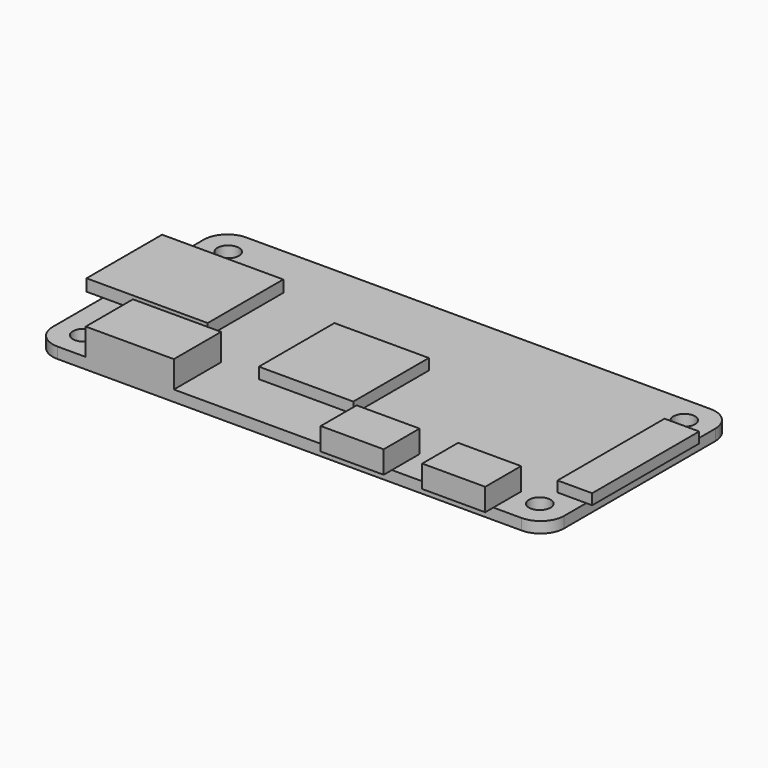
from build123d import *

# Parameters (mm, degrees)
F0_R     = 1.375
F1_DEPTH = 1.4
F2_W     = 12
F2_H     = 12
F3_DEPTH = 1.4
F2_W_2   = 11.2
F2_H_2   = 7.5
F4_DEPTH = 3.4
F2_W_3   = 8
F2_H_3   = 4.4
F2_H_4   = 1.3
F5_DEPTH = 2.85
F2_W_4   = 3.65
F2_H_5   = 17
F2_W_5   = 0.75
F6_DEPTH = 1.35
F2_W_6   = 2.1
F2_W_7   = 13.3
F7_DEPTH = 1.5


with BuildPart() as f1:
    # F0 (on Top) → F1 (new body)
    with BuildSketch(Plane.XY):
        with BuildLine():
            Line((-29.5, -15), (29.5, -15))
            ThreePointArc((29.5, -15), (31.62132, -14.12132), (32.5, -12))
            Line((32.5, -12), (32.5, 12))
            ThreePointArc((32.5, 12), (31.62132, 14.12132), (29.5, 15))
            Line((29.5, 15), (-29.5, 15))
            ThreePointArc((-29.5, 15), (-31.62132, 14.12132), (-32.5, 12))
            Line((-32.5, 12), (-32.5, -12))
            ThreePointArc((-32.5, -12), (-31.62132, -14.12132), (-29.5, -15))
        make_face()
        with Locations((-28.975, -11.475)):
            Circle(F0_R, mode=Mode.SUBTRACT)
        with Locations((28.975, -11.475)):
            Circle(F0_R, mode=Mode.SUBTRACT)
        with Locations((-28.975, 11.475)):
            Circle(F0_R, mode=Mode.SUBTRACT)
        with Locations((28.975, 11.475)):
            Circle(F0_R, mode=Mode.SUBTRACT)
    extrude(amount=F1_DEPTH)

    # F2 (on face) → F3 (join)
    with BuildSketch(Plane.XY.offset(1.4)):
        with Locations((-3.5, -2)):
            Rectangle(F2_W, F2_H)
    extrude(amount=F3_DEPTH)

    # F2 (on face) → F4 (join)
    with BuildSketch(Plane.XY.offset(1.4)):
        with Locations((-20.3, -11.25)):
            Rectangle(F2_W_2, F2_H_2)
    extrude(amount=F4_DEPTH)

    # F2 (on face) → F5 (join)
    with BuildSketch(Plane.XY.offset(1.4)):
        with Locations((9, -12.8)):
            Rectangle(F2_W_3, F2_H_3)
        with Locations((21.9, -12.8)):
            Rectangle(F2_W_3, F2_H_3)
        with Locations((21.9, -15.65)):
            Rectangle(F2_W_3, F2_H_4)
        with Locations((9, -15.65)):
            Rectangle(F2_W_3, F2_H_4)
    extrude(amount=F5_DEPTH)

    # F2 (on face) → F6 (join)
    with BuildSketch(Plane.XY.offset(1.4)):
        with Locations((30.675, 0)):
            Rectangle(F2_W_4, F2_H_5)
        with Locations((32.875, 0)):
            Rectangle(F2_W_5, F2_H_5)
    extrude(amount=F6_DEPTH)

    # F2 (on face) → F7 (join)
    with BuildSketch(Plane.XY.offset(1.4)):
        with Locations((-33.55, 2)):
            Rectangle(F2_W_6, F2_H)
        with Locations((-25.85, 2)):
            Rectangle(F2_W_7, F2_H)
    extrude(amount=F7_DEPTH)


solid = f1.part
